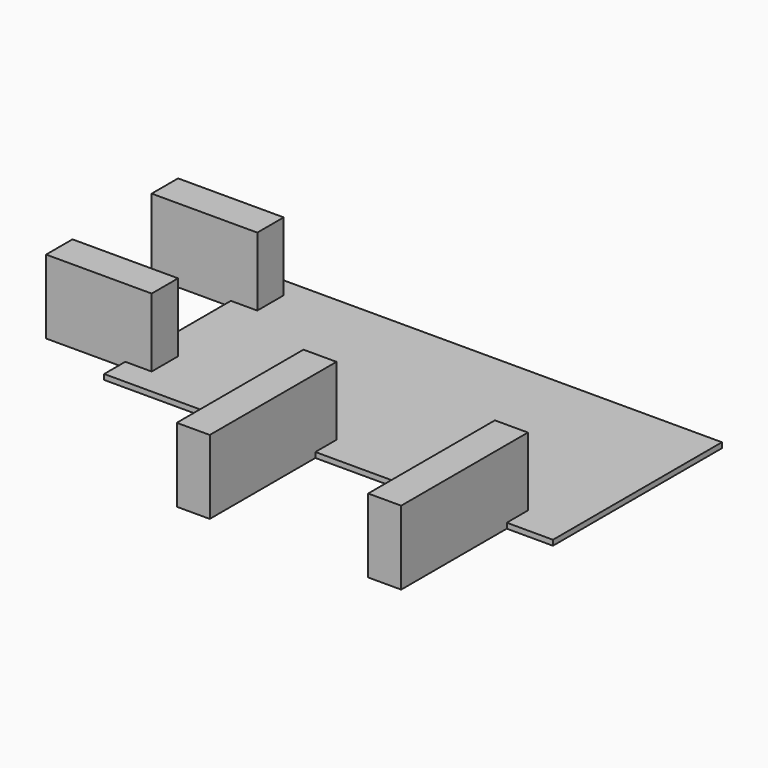
from build123d import *

# Parameters (mm, degrees)
BOX011_W     = 4
BOX011_H     = 1.25
BOX011_DEPTH = 2.8
BOX009_W     = 1.25
BOX009_H     = 6
BOX009_DEPTH = 2.8
BOX012_W     = 4
BOX012_H     = 1.25
BOX012_DEPTH = 2.8
BOX013_W     = 17
BOX013_H     = 8
BOX013_DEPTH = 0.2
BOX010_W     = 1.25
BOX010_H     = 6
BOX010_DEPTH = 2.8


with BuildPart() as cube011:
    # Box011 → Box011 (new body)
    with BuildSketch(Plane(origin=(-14, 3, 0), x_dir=(1, 0, 0), z_dir=(0, 0, 1))):
        with Locations((2, 0.625)):
            Rectangle(BOX011_W, BOX011_H)
    extrude(amount=BOX011_DEPTH)


with BuildPart() as cube009:
    # Box009 → Box009 (new body)
    with BuildSketch(Plane(origin=(3, -3, 0), x_dir=(1, 0, 0), z_dir=(0, 0, 1))):
        with Locations((0.625, 3)):
            Rectangle(BOX009_W, BOX009_H)
    extrude(amount=BOX009_DEPTH)


with BuildPart() as cube012:
    # Box012 → Box012 (new body)
    with BuildSketch(Plane(origin=(-14, 8, 0), x_dir=(1, 0, 0), z_dir=(0, 0, 1))):
        with Locations((2, 0.625)):
            Rectangle(BOX012_W, BOX012_H)
    extrude(amount=BOX012_DEPTH)


with BuildPart() as cube013:
    # Box013 → Box013 (new body)
    with BuildSketch(Plane(origin=(-11, 2, 0), x_dir=(1, 0, 0), z_dir=(0, 0, 1))):
        with Locations((8.5, 4)):
            Rectangle(BOX013_W, BOX013_H)
    extrude(amount=BOX013_DEPTH)


with BuildPart() as support:
    # Box010 → Box010 (new body)
    with BuildSketch(Plane(origin=(-4.25, -3, 0), x_dir=(1, 0, 0), z_dir=(0, 0, 1))):
        with Locations((0.625, 3)):
            Rectangle(BOX010_W, BOX010_H)
    extrude(amount=BOX010_DEPTH)

    # Fusion001: union Cube011, Cube009, Cube012, Cube013
    add(cube011.part)
    add(cube009.part)
    add(cube012.part)
    add(cube013.part)


solid = support.part
